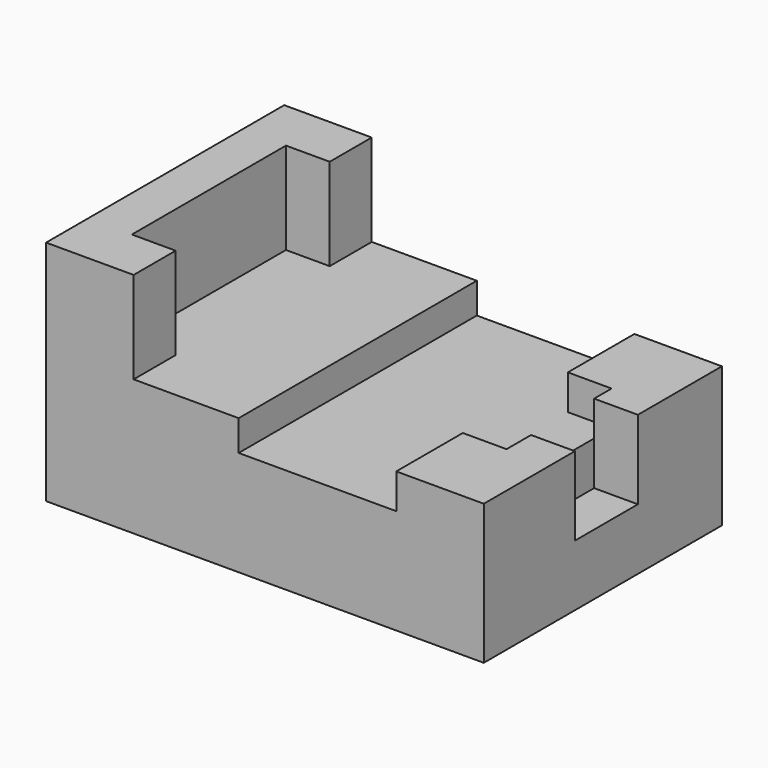
from build123d import *

# Parameters (mm, degrees)
F1_DEPTH  = 34
F2_W      = 9
F2_H      = 9
F3_DEPTH  = 5
F4_R      = 3.5
F5_DEPTH  = 6
F6_W      = 5
F6_H      = 9.5
F7_DEPTH  = 4
F8_W      = 20.85
F8_H      = 14
F9_DEPTH  = 34.001
F10_W     = 5
F10_H     = 14
F11_DEPTH = 6
F12_W     = 5
F12_H     = 14
F13_DEPTH = 6
F15_DEPTH = 3.5


with BuildPart() as f1:
    # F0 (on Front) → F1 (new body)
    with BuildSketch(Plane.XZ):
        Polygon((0.85, 13), (-25, 13), (-25, -13), (25, -13), (25, 3), (20, 3), (20, -1), (0.85, -1), align=None)
    extrude(amount=F1_DEPTH)

    # F2 (on face) → F3 (cut, through all)
    with BuildSketch(Plane.YZ.offset(25)):
        with Locations((-16.5, -1.5)):
            Rectangle(F2_W, F2_H)
    extrude(amount=-F3_DEPTH, mode=Mode.SUBTRACT)

    # F4 (on face) → F5 (cut)
    with BuildSketch(Plane(origin=(-25, 0, 0), x_dir=(0, -1, 0), z_dir=(-1, 0, 0))):
        with Locations((17, -5)):
            Circle(F4_R)
    extrude(amount=-F5_DEPTH, mode=Mode.SUBTRACT)

    # F6 (on face) → F7 (join, through all)
    with BuildSketch(Plane.XY.offset(-1)):
        with Locations((17.5, -29.25)):
            Rectangle(F6_W, F6_H)
        with Locations((17.5, -4.75)):
            Rectangle(F6_W, F6_H)
    extrude(amount=F7_DEPTH)

    # F8 (on face) → F9 (cut, through all)
    with BuildSketch(Plane.XZ.offset(34)):
        with Locations((-9.575, 6)):
            Rectangle(F8_W, F8_H)
    extrude(amount=-F9_DEPTH, mode=Mode.SUBTRACT)

    # F10 (on face) → F11 (join)
    with BuildSketch(Plane.XZ.offset(34)):
        with Locations((-17.5, 6)):
            Rectangle(F10_W, F10_H)
    extrude(amount=-F11_DEPTH)

    # F12 (on face) → F13 (join)
    with BuildSketch(Plane(origin=(0, 0, 0), x_dir=(-1, 0, 0), z_dir=(0, 1, 0))):
        with Locations((17.5, 6)):
            Rectangle(F12_W, F12_H)
    extrude(amount=-F13_DEPTH)

    # F14 (on face) → F15 (join)
    with BuildSketch(Plane.XY.offset(-1)):
        Polygon((-3, 0), (-15, 0), (-15, -6), (-20, -6), (-20, -28), (-15, -28), (-15, -34), (-3, -34), align=None)
    extrude(amount=F15_DEPTH)


solid = f1.part
